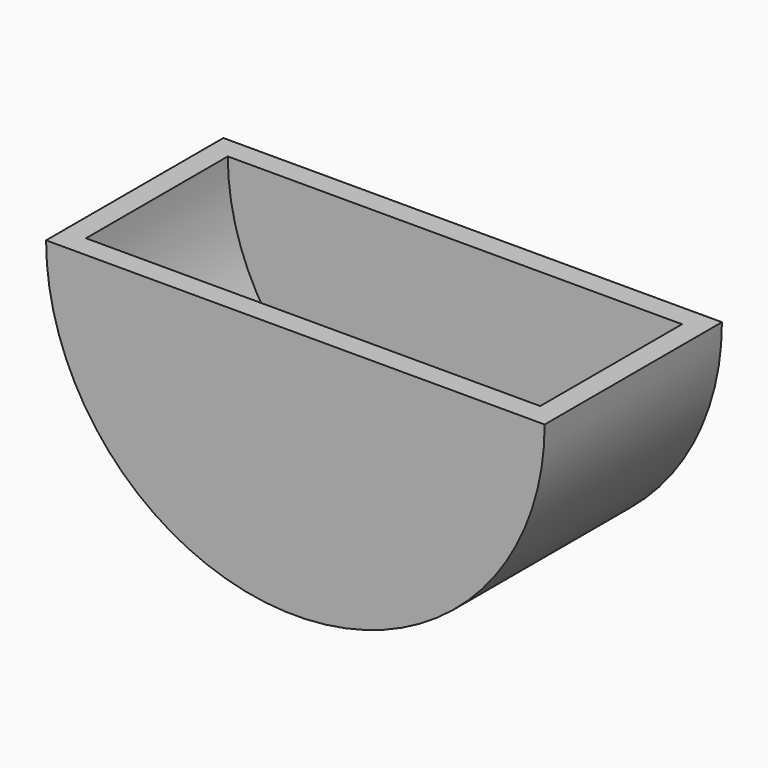
from build123d import *

# Parameters (mm, degrees)
F1_DEPTH = 40
F2_T     = -4


with BuildPart() as f1:
    # F0 (on Front) → F1 (new body)
    with BuildSketch(Plane.XZ):
        with BuildLine():
            Line((44.70779, 0), (-45.29221, 0))
            ThreePointArc((-45.29221, 0), (-0.29221, -45), (44.70779, 0))
        make_face()
    extrude(amount=F1_DEPTH)

    # F2
    f2_openings = [f1.faces().sort_by_distance(p)[0] for p in [
        (-0.29221, -20, 0),
    ]]
    offset(amount=F2_T, openings=f2_openings)


solid = f1.part
